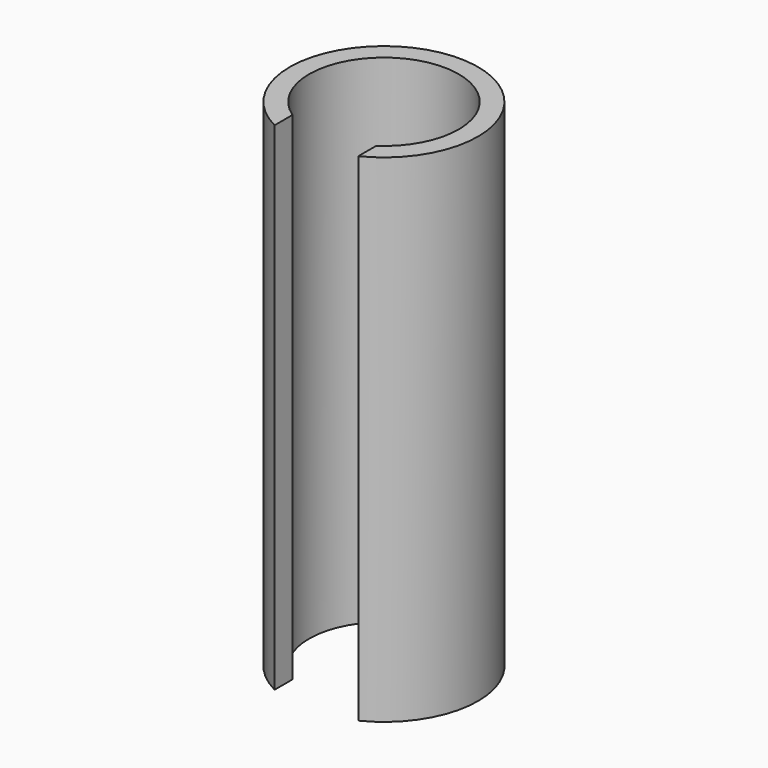
from build123d import *

# Parameters (mm, degrees)
F0_R     = 11.43
F0_R_2   = 9.0805
F1_DEPTH = 60.325
F3_DEPTH = 127


with BuildPart() as f1:
    # F0 (on Top) → F1 (new body)
    with BuildSketch(Plane.XY):
        Circle(F0_R)
        Circle(F0_R_2, mode=Mode.SUBTRACT)
    extrude(amount=F1_DEPTH)

    # F2 (on Top) → F3 (cut)
    with BuildSketch(Plane.XY):
        Polygon((5.08, 0), (0, 0), (-5.08, 0), (-5.08, -15.773838), (5.08, -15.773838), align=None)
    extrude(amount=F3_DEPTH, mode=Mode.SUBTRACT)


solid = f1.part
